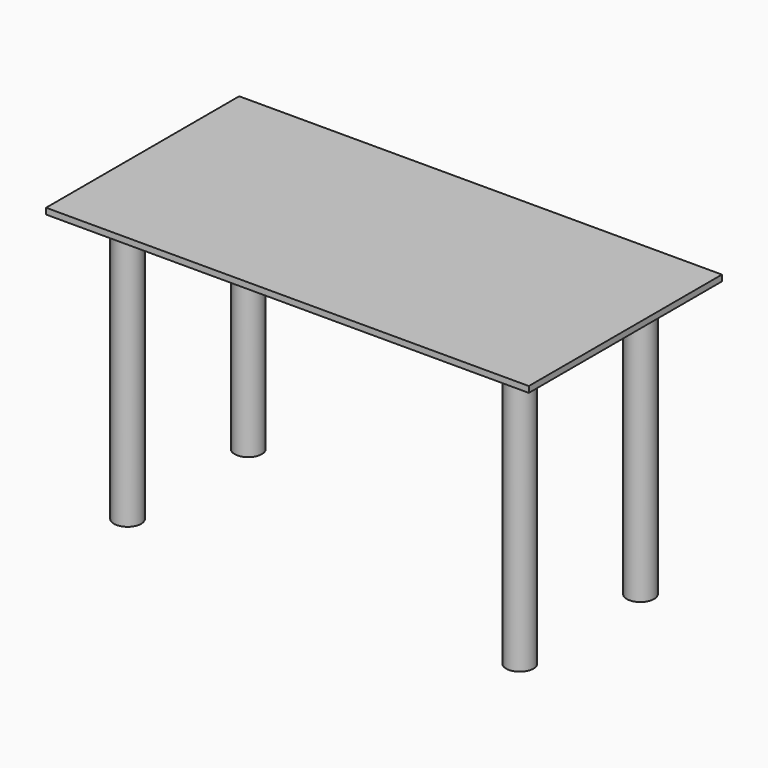
from build123d import *

# Parameters (mm, degrees)
F0_W     = 1600
F0_H     = 800
F1_DEPTH = 20
F2_R     = 45
F3_DEPTH = 900
F4_ANGLE = 180


with BuildPart() as f1:
    # F0 (on Top) → F1 (new body)
    with BuildSketch(Plane.XY):
        Rectangle(F0_W, F0_H)
        Rectangle(F0_W, F0_H)
    extrude(amount=F1_DEPTH)

    # F2 (on face) → F3 (join)
    with BuildSketch(Plane.XY.offset(20)):
        with Locations((-650, 250)):
            Circle(F2_R)
        with Locations((650, 250)):
            Circle(F2_R)
        with Locations((-650, -250)):
            Circle(F2_R)
        with Locations((650, -250)):
            Circle(F2_R)
    extrude(amount=F3_DEPTH)


with BuildPart() as f1_1:
    # F4: moved
    add(f1.part.rotate(Axis((0, -400, 20), (1, 0, 0)), F4_ANGLE))


solid = f1_1.part
